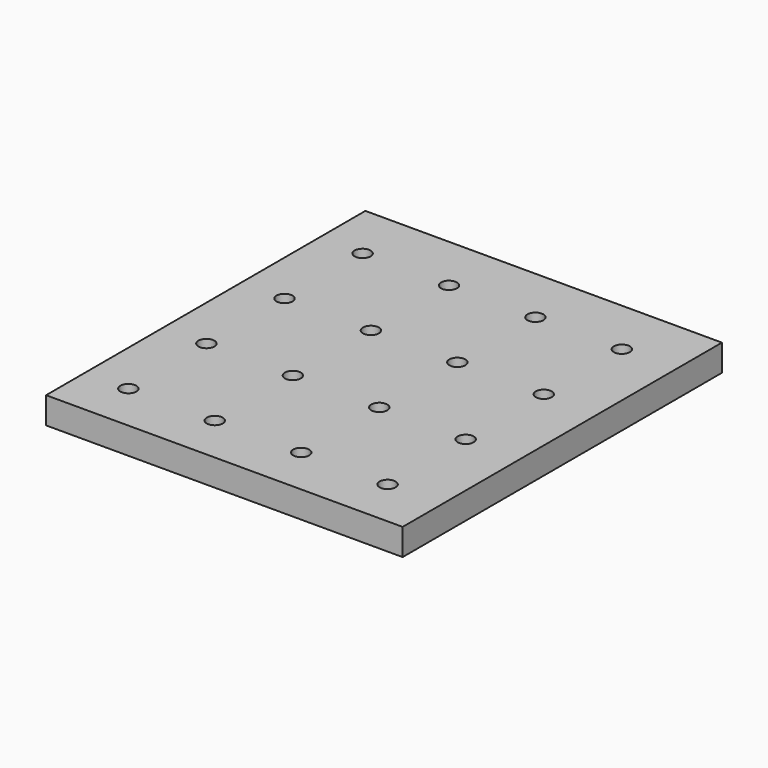
from build123d import *

# Parameters (mm, degrees)
F0_W     = 85.09
F0_H     = 95.25
F1_DEPTH = 6.35
F2_R     = 1.905
F3_DEPTH = 6.351


with BuildPart() as f1:
    # F0 (on Top) → F1 (new body)
    with BuildSketch(Plane.XY):
        Rectangle(F0_W, F0_H)
    extrude(amount=F1_DEPTH)

    # F2 (on Top) → F3 (cut, through all)
    with BuildSketch(Plane.XY):
        with Locations((-32.22625, -35.983333)):
            Circle(F2_R)
        with Locations((-32.22625, -12.691533)):
            Circle(F2_R)
        with Locations((-32.22625, 10.600267)):
            Circle(F2_R)
        with Locations((-32.22625, 33.892067)):
            Circle(F2_R)
        with Locations((-32.22625, 57.183867)):
            Circle(F2_R)
        with Locations((-32.22625, 80.475667)):
            Circle(F2_R)
        with Locations((-11.60145, -35.983333)):
            Circle(F2_R)
        with Locations((-11.60145, -12.691533)):
            Circle(F2_R)
        with Locations((-11.60145, 10.600267)):
            Circle(F2_R)
        with Locations((-11.60145, 33.892067)):
            Circle(F2_R)
        with Locations((-11.60145, 57.183867)):
            Circle(F2_R)
        with Locations((-11.60145, 80.475667)):
            Circle(F2_R)
        with Locations((9.02335, -35.983333)):
            Circle(F2_R)
        with Locations((9.02335, -12.691533)):
            Circle(F2_R)
        with Locations((9.02335, 10.600267)):
            Circle(F2_R)
        with Locations((9.02335, 33.892067)):
            Circle(F2_R)
        with Locations((9.02335, 57.183867)):
            Circle(F2_R)
        with Locations((9.02335, 80.475667)):
            Circle(F2_R)
        with Locations((29.64815, -35.983333)):
            Circle(F2_R)
        with Locations((29.64815, -12.691533)):
            Circle(F2_R)
        with Locations((29.64815, 10.600267)):
            Circle(F2_R)
        with Locations((29.64815, 33.892067)):
            Circle(F2_R)
        with Locations((29.64815, 57.183867)):
            Circle(F2_R)
        with Locations((29.64815, 80.475667)):
            Circle(F2_R)
    extrude(amount=F3_DEPTH, mode=Mode.SUBTRACT)


solid = f1.part
